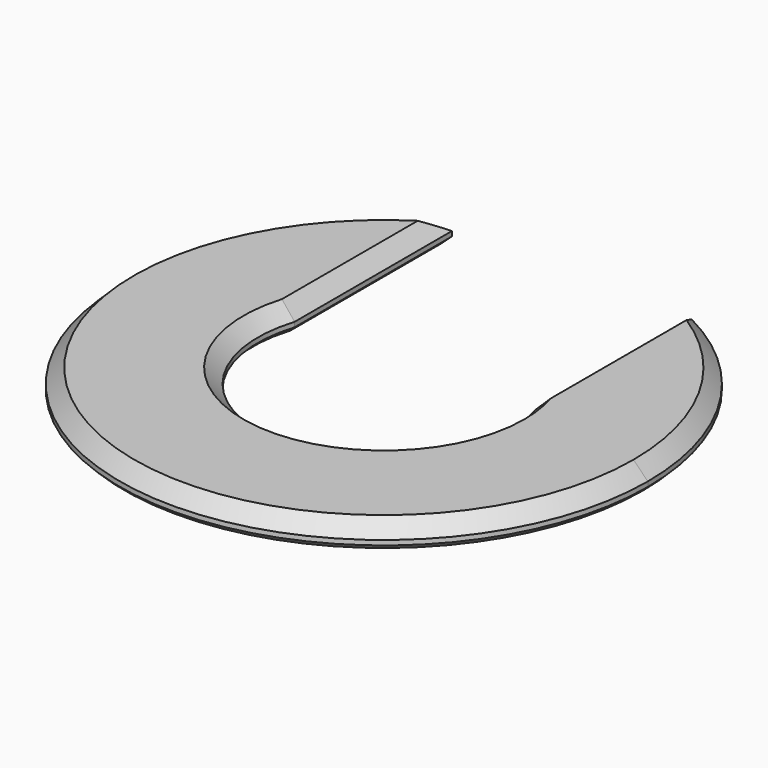
from build123d import *

# Parameters (mm, degrees)
F1_DEPTH = 1
F2_SIZE  = 0.2
F3_SIZE  = 0.6


with BuildPart() as f1:
    # F0 (on Top) → F1 (new body)
    with BuildSketch(Plane.XY):
        with BuildLine():
            ThreePointArc((5, 1.6007810594), (5.1871234803, 0.8100925873), (5.25, 0))
            ThreePointArc((5.25, 0), (-0.8100925873, -5.1871234803), (-5, 1.6007810594))
            Line((-5, 1.6007810594), (-5, 9.7979589711))
            ThreePointArc((-5, 9.7979589711), (-5.7445626465, -9.3808315196), (11, 0))
            ThreePointArc((11, 0), (9.3808315196, 5.7445626465), (5, 9.7979589711))
            Line((5, 9.7979589711), (5, 1.6007810594))
        make_face()
    extrude(amount=F1_DEPTH)

    # F2
    f2_edges = [f1.edges().sort_by_distance(p)[0] for p in [
        (0, -5.25, 0),
        (-5, 5.69937, 0),
        (-5.744563, -9.380832, 0),
        (9.380832, 5.744563, 0),
        (5, 5.69937, 0),
    ]]
    chamfer(f2_edges, length=F2_SIZE)

    # F3
    f3_edges = [f1.edges().sort_by_distance(p)[0] for p in [
        (0, -5.25, 1),
        (-5, 5.69937, 1),
        (-5.744563, -9.380832, 1),
        (9.380832, 5.744563, 1),
        (5, 5.69937, 1),
    ]]
    chamfer(f3_edges, length=F3_SIZE)


solid = f1.part
